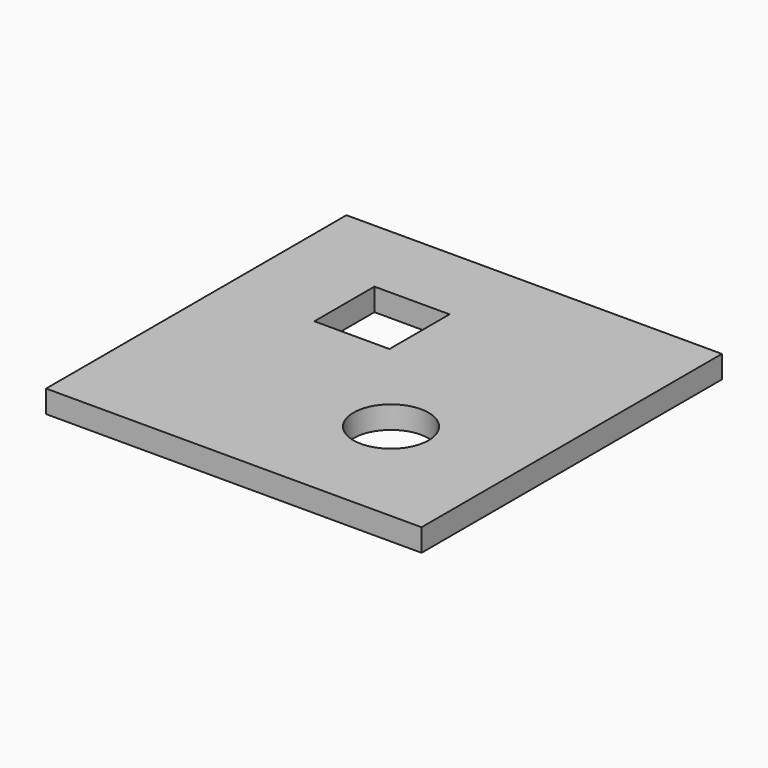
from build123d import *

# Parameters (mm, degrees)
F0_W     = 50
F0_H     = 50
F1_DEPTH = 3
F2_W     = 10
F2_H     = 10
F2_R     = 5
F3_DEPTH = 5


with BuildPart() as f1:
    # F0 (on Top) → F1 (new body)
    with BuildSketch(Plane.XY):
        Rectangle(F0_W, F0_H)
    extrude(amount=F1_DEPTH)

    # F2 (on face) → F3 (cut)
    with BuildSketch(Plane.XY.offset(3)):
        with Locations((-7.680143, 9.258491)):
            Rectangle(F2_W, F2_H)
        with Locations((8.349269, -9.270921)):
            Circle(F2_R)
    extrude(amount=-F3_DEPTH, mode=Mode.SUBTRACT)


solid = f1.part
